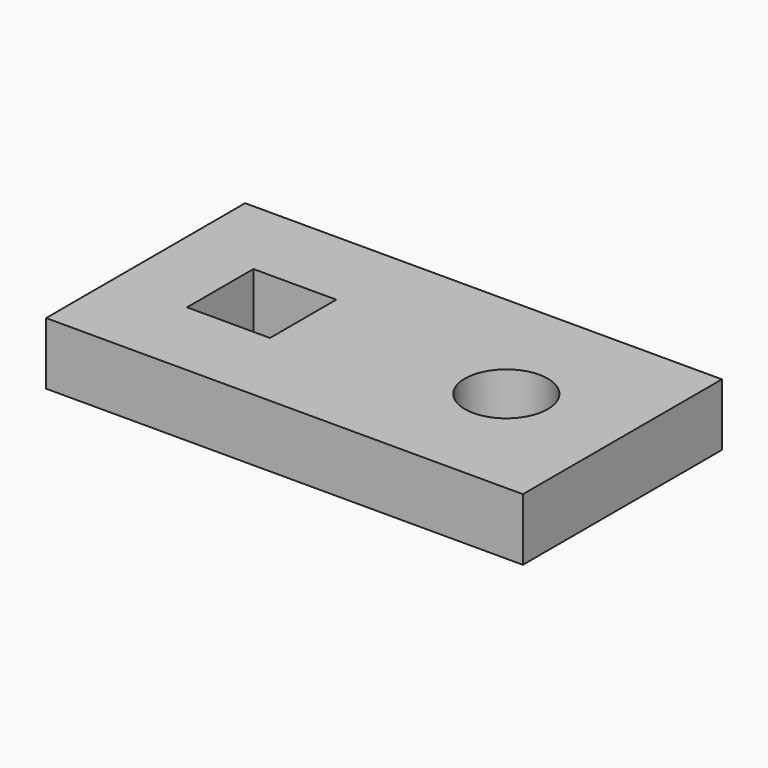
from build123d import *

# Parameters (mm, degrees)
F1_W     = 146.05
F1_H     = 76.2
F1_W_2   = 25.4
F1_H_2   = 25.4
F3_DEPTH = 19.05
F2_R     = 12.7
F4_DEPTH = 36.83


with BuildPart() as f3:
    # F1 (on face) → F3 (new body)
    with BuildSketch(Plane.XY):
        with Locations((-0.653189, 1.054789)):
            Rectangle(F1_W, F1_H)
        with Locations((-38.118189, 1.054789)):
            Rectangle(F1_W_2, F1_H_2, mode=Mode.SUBTRACT)
    extrude(amount=F3_DEPTH)

    # F2 (on face) → F4 (cut)
    with BuildSketch(Plane.XY):
        with Locations((36.811811, 1.054789)):
            Circle(F2_R)
    extrude(amount=F4_DEPTH, mode=Mode.SUBTRACT)


solid = f3.part
